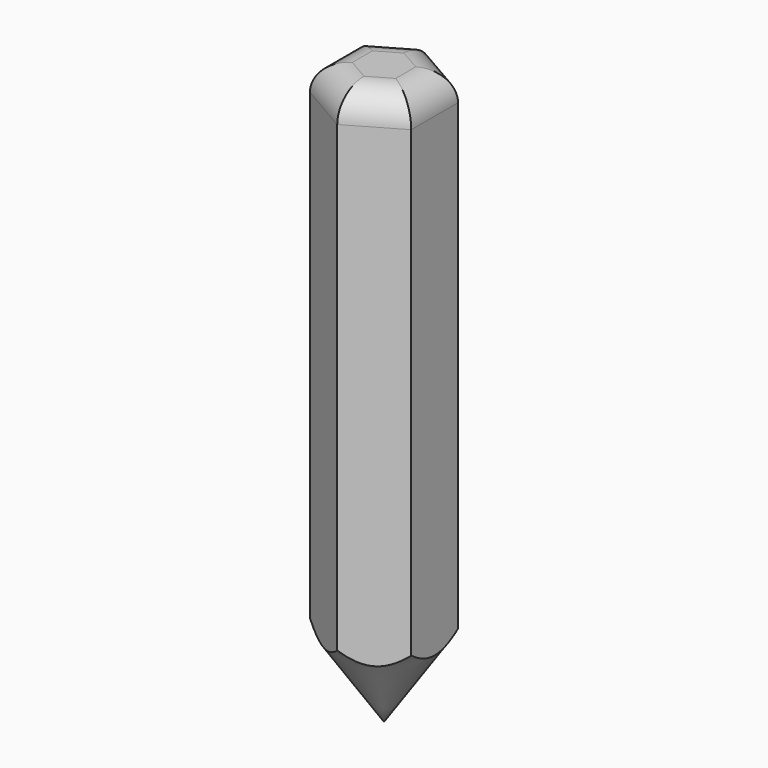
from build123d import *

# Parameters (mm, degrees)
F1_DEPTH = 40
F2_R     = 2


with BuildPart() as f1:
    # F0 (on Top) → F1 (new body)
    with BuildSketch(Plane.XY):
        Polygon((-3.5, 2.020726), (-3.5, -2.020726), (0, -4.041452), (3.5, -2.020726), (3.5, 2.020726), (0, 4.041452), align=None)
    extrude(amount=F1_DEPTH)

    # F2
    f2_edges = [f1.edges().sort_by_distance(p)[0] for p in [
        (-3.5, 0, 40),
        (-1.75, -3.031089, 40),
        (1.75, -3.031089, 40),
        (3.5, 0, 40),
        (1.75, 3.031089, 40),
        (-1.75, 3.031089, 40),
    ]]
    fillet(f2_edges, radius=F2_R)

    # F3 (on Right) → F4 (revolve, cut)
    with BuildSketch(Plane.YZ):
        Polygon((11.752745, 17.418522), (0, 0), (0, -5.376646), (19.7981, -5.376646), (22.114186, 17.418522), align=None)
    revolve(axis=Axis((0, 0, -2.688323), (0, 0, 1)), mode=Mode.SUBTRACT)


solid = f1.part
